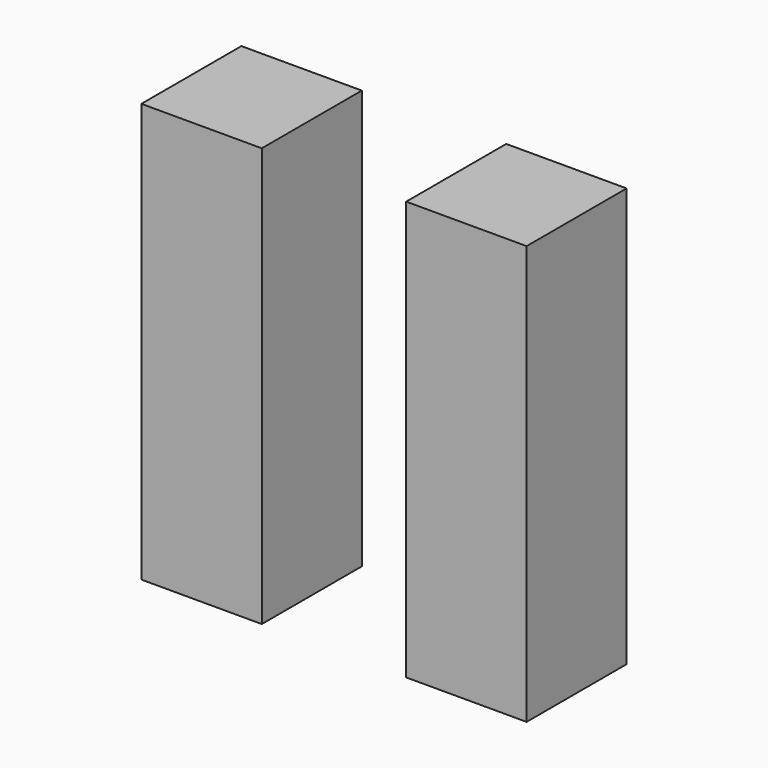
from build123d import *

# Parameters (mm, degrees)
BOX013_W     = 23
BOX013_H     = 23.88
BOX013_DEPTH = 80
BOX012_W     = 23
BOX012_H     = 23.88
BOX012_DEPTH = 80


with BuildPart() as cork001:
    # Box013 → Box013 (new body)
    with BuildSketch(Plane(origin=(-36.79, -11.94, -49), x_dir=(1, 0, 0), z_dir=(0, 0, 1))):
        with Locations((11.5, 11.94)):
            Rectangle(BOX013_W, BOX013_H)
    extrude(amount=BOX013_DEPTH)


with BuildPart() as cork:
    # Box012 → Box012 (new body)
    with BuildSketch(Plane(origin=(13.79, -11.94, -49), x_dir=(1, 0, 0), z_dir=(0, 0, 1))):
        with Locations((11.5, 11.94)):
            Rectangle(BOX012_W, BOX012_H)
    extrude(amount=BOX012_DEPTH)

    # Fusion030: union Cork001
    add(cork001.part)


solid = cork.part
